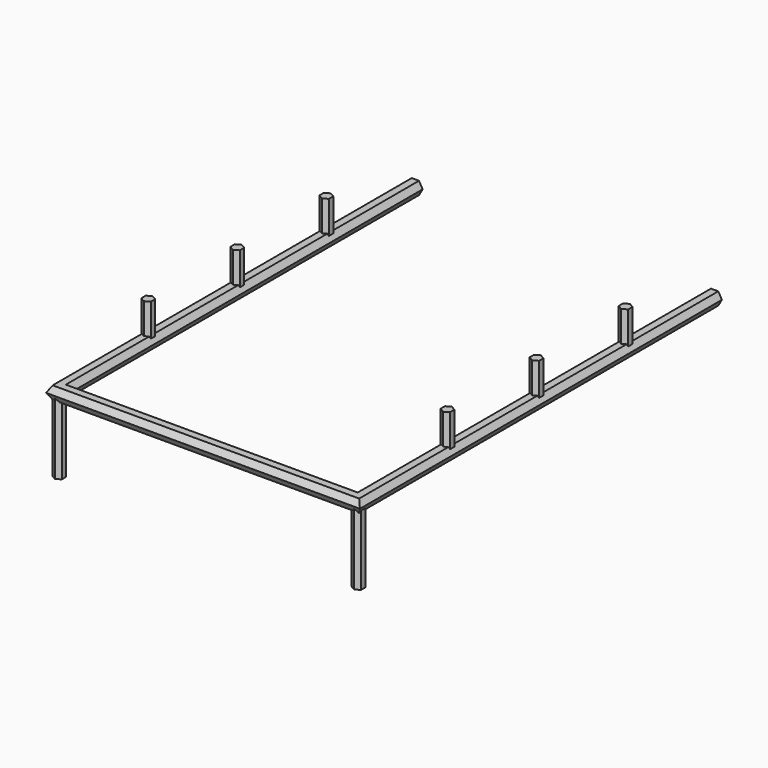
from build123d import *

# Parameters (mm, degrees)
F2_DEPTH = 25.4
F3_DEPTH = 50.8


with BuildPart() as f1:
    # F1: sweep along a path in F0
    with BuildLine(Plane.XY) as f1_path:
        Line((0, 0), (0, -305))
        Line((0, -305), (-205, -305))
        Line((-205, -305), (-205, 0))
    # F6 (on Front) → F1 (sweep)
    with BuildSketch(Plane.XZ):
        Polygon((2.5, -4.3301270189), (5, 0), (2.5, 4.3301270189), (-2.5, 4.3301270189), (-5, 0), (-2.5, -4.3301270189), align=None)
    sweep(path=f1_path.line, transition=Transition.RIGHT)


with BuildPart() as f2:
    # F0 (on Top) → F2 (new body)
    with BuildSketch(Plane.XY):
        Polygon((0, -225), (0, -232.5), (3.2475952642, -230.625), (3.2475952642, -226.875), align=None)
        Polygon((-3.2475952642, -230.625), (0, -232.5), (0, -225), (-3.2475952642, -226.875), align=None)
    extrude(amount=F2_DEPTH)


with BuildPart() as f2b:
    # F0 (on Top) → F2, piece 2 (new body)
    with BuildSketch(Plane.XY):
        Polygon((0, -148.75), (0, -156.25), (3.2475952642, -154.375), (3.2475952642, -150.625), align=None)
        Polygon((-3.2475952642, -154.375), (0, -156.25), (0, -148.75), (-3.2475952642, -150.625), align=None)
    extrude(amount=F2_DEPTH)


with BuildPart() as f2c:
    # F0 (on Top) → F2, piece 3 (new body)
    with BuildSketch(Plane.XY):
        Polygon((0, -72.5), (0, -80), (3.2475952642, -78.125), (3.2475952642, -74.375), align=None)
        Polygon((-3.2475952642, -78.125), (0, -80), (0, -72.5), (-3.2475952642, -74.375), align=None)
    extrude(amount=F2_DEPTH)


with BuildPart() as f2d:
    # F0 (on Top) → F2, piece 4 (new body)
    with BuildSketch(Plane.XY):
        Polygon((-205, -148.75), (-205, -156.25), (-201.7524047358, -154.375), (-201.7524047358, -150.625), align=None)
        Polygon((-208.2475952642, -154.375), (-205, -156.25), (-205, -148.75), (-208.2475952642, -150.625), align=None)
    extrude(amount=F2_DEPTH)


with BuildPart() as f2e:
    # F0 (on Top) → F2, piece 5 (new body)
    with BuildSketch(Plane.XY):
        Polygon((-205, -225), (-205, -232.5), (-201.7524047358, -230.625), (-201.7524047358, -226.875), align=None)
        Polygon((-208.2475952642, -230.625), (-205, -232.5), (-205, -225), (-208.2475952642, -226.875), align=None)
    extrude(amount=F2_DEPTH)


with BuildPart() as f2f:
    # F0 (on Top) → F2, piece 6 (new body)
    with BuildSketch(Plane.XY):
        Polygon((-205, -72.5), (-205, -80), (-201.7524047358, -78.125), (-201.7524047358, -74.375), align=None)
        Polygon((-208.2475952642, -78.125), (-205, -80), (-205, -72.5), (-208.2475952642, -74.375), align=None)
    extrude(amount=F2_DEPTH)


with BuildPart() as f3:
    # F0 (on Top) → F3 (new body)
    with BuildSketch(Plane.XY):
        Polygon((0, -301.25), (0, -305), (-3.2475952642, -305), (-3.2475952642, -306.875), (0, -308.75), (3.2475952642, -306.875), (3.2475952642, -303.125), align=None)
        Polygon((-3.2475952642, -305), (0, -305), (0, -301.25), (-3.2475952642, -303.125), align=None)
    extrude(amount=-F3_DEPTH)


with BuildPart() as f3b:
    # F0 (on Top) → F3, piece 2 (new body)
    with BuildSketch(Plane.XY):
        Polygon((-205, -305), (-201.7524047358, -305), (-201.7524047358, -303.125), (-205, -301.25), align=None)
        Polygon((-201.7524047358, -306.875), (-201.7524047358, -305), (-205, -305), (-205, -301.25), (-208.2475952642, -303.125), (-208.2475952642, -306.875), (-205, -308.75), align=None)
    extrude(amount=-F3_DEPTH)


solid = Compound([f1.part, f2.part, f2b.part, f2c.part, f2d.part, f2e.part, f2f.part, f3.part, f3b.part])
